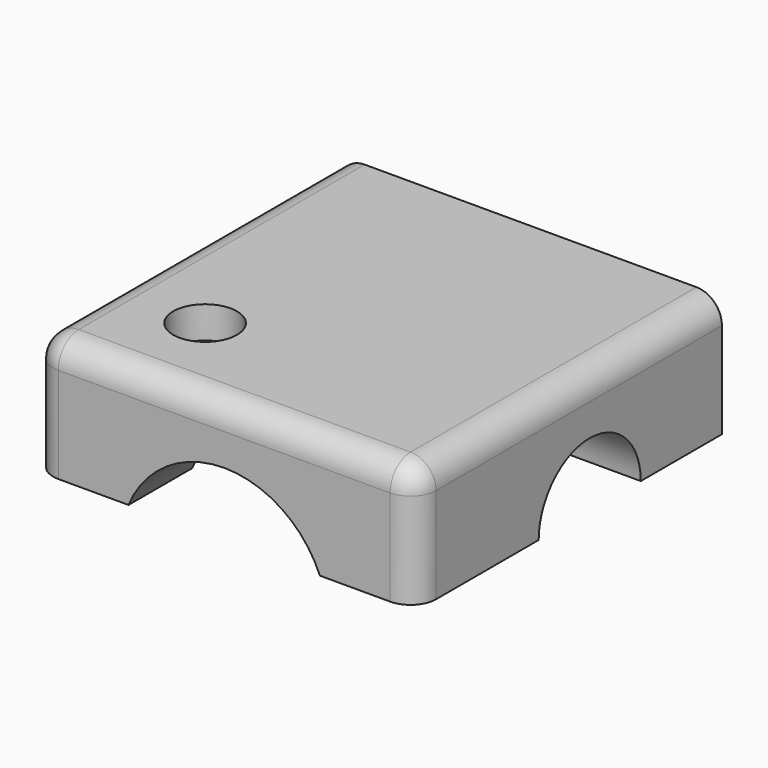
from build123d import *

# Parameters (mm, degrees)
F0_W           = 76.2
F0_H           = 76.2
F1_DEPTH       = 24.13
F3_DEPTH       = 76.201
F5_DEPTH       = 76.201
F7_D           = 6.35
F7_CBORE_D     = 12.7
F7_CBORE_DEPTH = 6.35
F8_R           = 5.08
F9_R           = 5.08
F10_R          = 5.08


with BuildPart() as f1:
    # F0 (on Top) → F1 (new body)
    with BuildSketch(Plane.XY):
        with Locations((-38.1, -16.877948)):
            Rectangle(F0_W, F0_H)
    extrude(amount=F1_DEPTH)

    # F2 (on face) → F3 (cut, through all)
    with BuildSketch(Plane.YZ):
        with BuildLine():
            Line((-24.367969, 0), (1.032031, 0))
            ThreePointArc((1.032031, 0), (-11.667969, 12.7), (-24.367969, 0))
        make_face()
    extrude(amount=-F3_DEPTH, mode=Mode.SUBTRACT)

    # F4 (on face) → F5 (cut, through all)
    with BuildSketch(Plane.XZ.offset(54.977948)):
        with BuildLine():
            Line((-57.15, 0), (-19.05, 0))
            ThreePointArc((-19.05, 0), (-38.1, 12.7), (-57.15, 0))
        make_face()
    extrude(amount=-F5_DEPTH, mode=Mode.SUBTRACT)

    # F7 (through all)
    with Locations(Plane.XY.offset(24.13)):
        with Locations((-57.15, -35.927948)):
            CounterBoreHole(F7_D / 2, F7_CBORE_D / 2, F7_CBORE_DEPTH)

    # F8
    f8_edges = [f1.edges().sort_by_distance(p)[0] for p in [
        (-76.2, -16.877948, 24.13),
    ]]
    fillet(f8_edges, radius=F8_R)

    # F9
    f9_edges = [f1.edges().sort_by_distance(p)[0] for p in [
        (-35.56, -54.977948, 24.13),
    ]]
    fillet(f9_edges, radius=F9_R)

    # F10
    f10_edges = [f1.edges().sort_by_distance(p)[0] for p in [
        (0, -14.337948, 24.13),
    ]]
    fillet(f10_edges, radius=F10_R)


solid = f1.part
